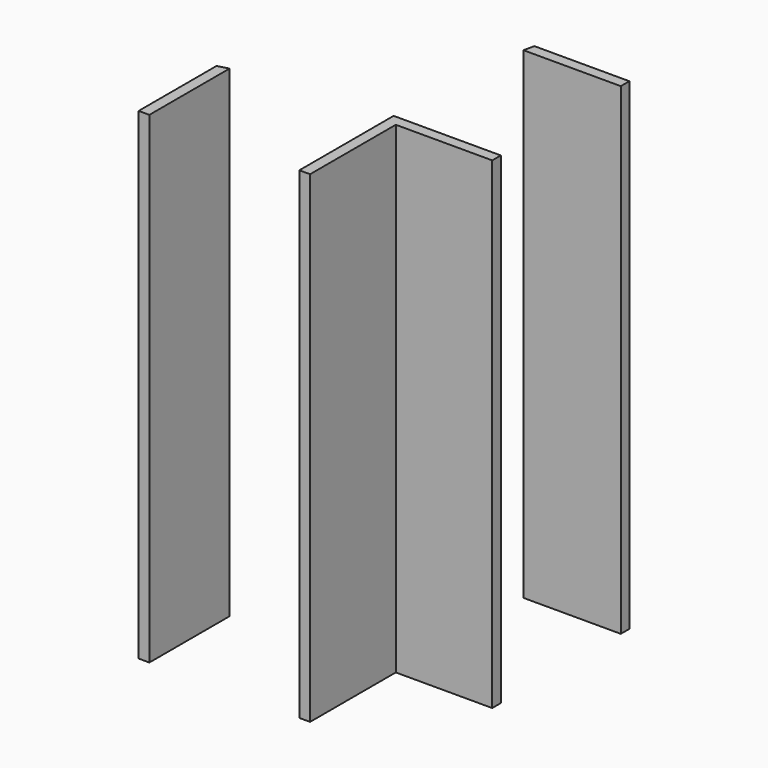
from build123d import *

# Parameters (mm, degrees)
CYLINDER003_R     = 4.3
CYLINDER003_DEPTH = 20
BOX010_W          = 2
BOX010_H          = 0.2
BOX010_DEPTH      = 9
BOX009_W          = 2
BOX009_H          = 0.2
BOX009_DEPTH      = 9
BOX011_W          = 2
BOX011_H          = 0.2
BOX011_DEPTH      = 9
BOX008_W          = 2
BOX008_H          = 0.2
BOX008_DEPTH      = 9


with BuildPart() as cylinder003:
    # Cylinder003 → Cylinder003 (new body)
    with BuildSketch(Plane(origin=(-6, 6, 12), x_dir=(1, 0, 0), z_dir=(0, 0, 1))):
        Circle(CYLINDER003_R)
    extrude(amount=CYLINDER003_DEPTH)


with BuildPart() as cube010:
    # Box010 → Box010 (new body)
    with BuildSketch(Plane(origin=(-2, 2, 20), x_dir=(0, -1, 0), z_dir=(0, 0, 1))):
        with Locations((1, 0.1)):
            Rectangle(BOX010_W, BOX010_H)
    extrude(amount=BOX010_DEPTH)


with BuildPart() as cube009:
    # Box009 → Box009 (new body)
    with BuildSketch(Plane(origin=(-2, 5, 20), x_dir=(1, 0, 0), z_dir=(0, 0, 1))):
        with Locations((1, 0.1)):
            Rectangle(BOX009_W, BOX009_H)
    extrude(amount=BOX009_DEPTH)


with BuildPart() as cube011:
    # Box011 → Box011 (new body)
    with BuildSketch(Plane(origin=(-5, 2, 20), x_dir=(0, -1, 0), z_dir=(0, 0, 1))):
        with Locations((1, 0.1)):
            Rectangle(BOX011_W, BOX011_H)
    extrude(amount=BOX011_DEPTH)


with BuildPart() as cut004:
    # Box008 → Box008 (new body)
    with BuildSketch(Plane(origin=(-2, 2, 20), x_dir=(1, 0, 0), z_dir=(0, 0, 1))):
        with Locations((1, 0.1)):
            Rectangle(BOX008_W, BOX008_H)
    extrude(amount=BOX008_DEPTH)

    # Fusion003: union Cube010, Cube009, Cube011
    add(cube010.part)
    add(cube009.part)
    add(cube011.part)

    # Cut004: cut Cylinder003
    add(cylinder003.part, mode=Mode.SUBTRACT)


solid = cut004.part
